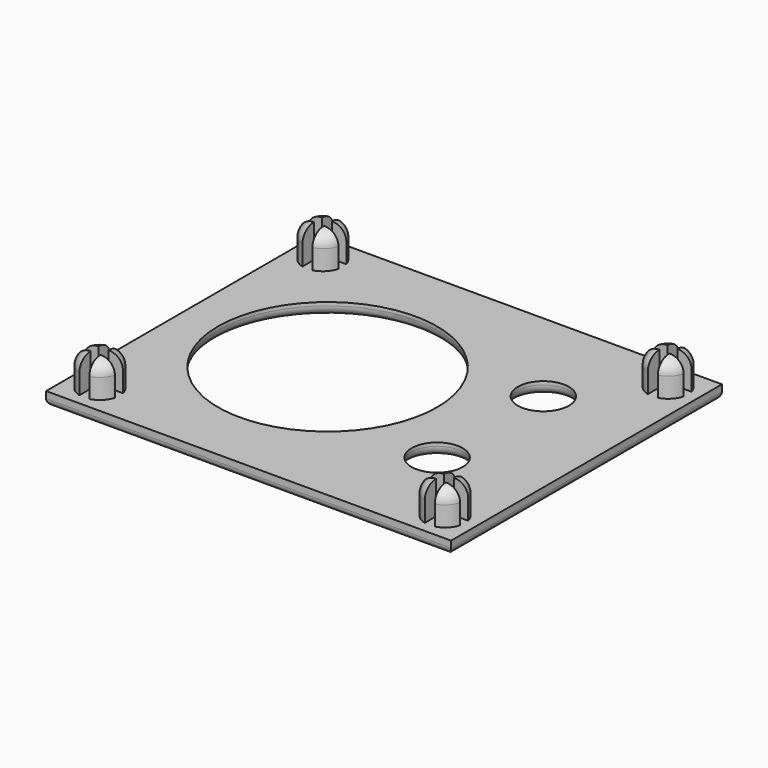
from build123d import *

# Parameters (mm, degrees)
SKETCH001_W                = 61
SKETCH001_H                = 51
PAD_DEPTH                  = 2
SKETCH002_R                = 3
PAD001_DEPTH               = 5
SKETCH002_MIRRORED_2_R     = 3
PAD001_MIRRORED_2_DEPTH    = 5
FILLET_R                   = 2
FILLET001_R                = 1
POCKET_DEPTH               = 5
POCKET_MIRRORED002_2_DEPTH = 5
SKETCH044_R                = 16.5
SKETCH044_R_2              = 3.85
POCKET011_DEPTH            = 5
FILLET021_R                = 1.5


with BuildPart() as part:
    # Sketch001 → Pad (new body)
    with BuildSketch(Plane.XY):
        Rectangle(SKETCH001_W, SKETCH001_H)
    extrude(amount=PAD_DEPTH)

    # Sketch002 (on DatumPlane) → Pad001 (join)
    with BuildSketch(Plane.XY.offset(2)):
        with Locations((-26, 21)):
            Circle(SKETCH002_R)
    pad001 = extrude(amount=PAD001_DEPTH)

    # Sketch002 Mirrored 2 → Pad001 Mirrored 2 (add)
    with BuildSketch(Plane(origin=(0, 0, 2), x_dir=(-1, 0, 0), z_dir=(0, 0, -1))):
        with Locations((-26, 21)):
            Circle(SKETCH002_MIRRORED_2_R)
    pad001_mirrored_2 = extrude(amount=-PAD001_MIRRORED_2_DEPTH)

    # Mirrored001: Pad001, Pad001 Mirrored 2 across Sketch002 H_Axis
    add(pad001.mirror(Plane(origin=(0, 0, 2), x_dir=(0, 0, 1), z_dir=(0, 1, 0))))
    add(pad001_mirrored_2.mirror(Plane(origin=(0, 0, 2), x_dir=(0, 0, 1), z_dir=(0, 1, 0))))

    # Fillet
    fillet_edges = [part.edges().sort_by_distance(p)[0] for p in [
        (29, 21, 7),
        (29, -21, 7),
        (-29, -21, 7),
        (-29, 21, 7),
    ]]
    fillet(fillet_edges, radius=FILLET_R)

    # Fillet001
    fillet001_edges = [part.edges().sort_by_distance(p)[0] for p in [
        (0, 25.5, 0),
        (30.5, 0, 0),
        (0, -25.5, 0),
        (-30.5, 0, 0),
    ]]
    fillet(fillet001_edges, radius=FILLET001_R)

    # Sketch003 (on DatumPlane) → Pocket (cut)
    with BuildSketch(Plane.XY.offset(7)):
        Polygon((-29.265642, -20.28286), (-26.765642, -20.28286), (-26.765642, -17.78286), (-25.265642, -17.78286), (-25.265642, -20.28286), (-22.765642, -20.28286), (-22.765642, -21.78286), (-25.265642, -21.78286), (-25.265642, -24.28286), (-26.765642, -24.28286), (-26.765642, -21.78286), (-29.265642, -21.78286), align=None)
    pocket = extrude(amount=-POCKET_DEPTH, mode=Mode.SUBTRACT)

    # Sketch003 Mirrored002 2 → Pocket Mirrored002 2 (cut)
    with BuildSketch(Plane(origin=(0, 0, 7), x_dir=(-1, 0, 0), z_dir=(0, 0, -1))):
        Polygon((-29.265642, -20.28286), (-26.765642, -20.28286), (-26.765642, -17.78286), (-25.265642, -17.78286), (-25.265642, -20.28286), (-22.765642, -20.28286), (-22.765642, -21.78286), (-25.265642, -21.78286), (-25.265642, -24.28286), (-26.765642, -24.28286), (-26.765642, -21.78286), (-29.265642, -21.78286), align=None)
    pocket_mirrored002_2 = extrude(amount=POCKET_MIRRORED002_2_DEPTH, mode=Mode.SUBTRACT)

    # Mirrored003: Pocket, Pocket Mirrored002 2 across Sketch003 H_Axis
    add(pocket.mirror(Plane(origin=(0, 0, 7), x_dir=(0, 0, 1), z_dir=(0, 1, 0))), mode=Mode.SUBTRACT)
    add(pocket_mirrored002_2.mirror(Plane(origin=(0, 0, 7), x_dir=(0, 0, 1), z_dir=(0, 1, 0))), mode=Mode.SUBTRACT)


with BuildPart() as part_1:
    # Body placement: moved
    add(part.part.moved(Location((0, -65, 0))))


with BuildPart() as part_2:
    # Clone004 placement: moved
    add(part_1.part.moved(Location((0, 65, 0))))

    # Sketch044 (on DatumPlane) → Pocket011 (cut)
    with BuildSketch(Plane(origin=(0, 0, 0), x_dir=(1, 0, 0), z_dir=(0, 0, -1))):
        with Locations((-8.5, 0)):
            Circle(SKETCH044_R)
        with Locations((16, 10)):
            Circle(SKETCH044_R_2)
        with Locations((16, -10)):
            Circle(SKETCH044_R_2)
    extrude(amount=-POCKET011_DEPTH, mode=Mode.SUBTRACT)

    # Fillet021
    fillet021_edges = [part_2.edges().sort_by_distance(p)[0] for p in [
        (-25, 0, 0),
        (12.15, 10, 0),
        (12.15, -10, 0),
    ]]
    fillet(fillet021_edges, radius=FILLET021_R)


with BuildPart() as part_3:
    # Body011 placement: moved
    add(part_2.part.moved(Location((149, -65, 0))))


solid = part_3.part
